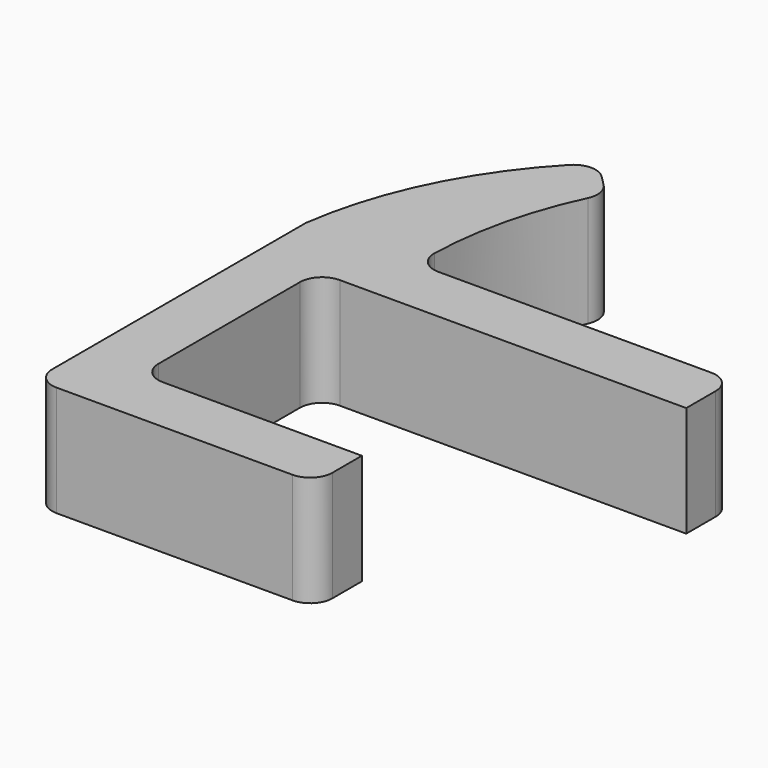
from build123d import *

# Parameters (mm, degrees)
F1_DEPTH = 15


with BuildPart() as f1:
    # F0 (on Top) → F1 (new body)
    with BuildSketch(Plane.XY):
        with BuildLine():
            ThreePointArc((0, 3), (0.87868, 0.87868), (3, 0))
            Line((3, 0), (35, 0))
            ThreePointArc((35, 0), (37.12132, 0.87868), (38, 3))
            Line((38, 3), (38, 8))
            Line((38, 8), (11, 8))
            ThreePointArc((11, 8), (8.87868, 8.87868), (8, 11))
            Line((8, 11), (8, 35))
            ThreePointArc((8, 35), (8.87868, 37.12132), (11, 38))
            Line((11, 38), (58, 38))
            Line((58, 38), (58, 43))
            ThreePointArc((58, 43), (57.12132, 45.12132), (55, 46))
            Line((55, 46), (17.991306, 46))
            ThreePointArc((17.991306, 46), (15.840344, 46.908742), (14.992494, 49.084426))
            ThreePointArc((14.992494, 49.084426), (16.344912, 59.351108), (19.765401, 69.12526))
            ThreePointArc((19.765401, 69.12526), (20.005693, 70.917938), (19.171778, 72.522937))
            Line((19.171778, 72.522937), (17.79718, 73.897535))
            ThreePointArc((17.79718, 73.897535), (15.64296, 74.776035), (13.508526, 73.850502))
            ThreePointArc((13.508526, 73.850502), (4.565133, 60.98706), (0, 46))
            Line((0, 46), (0, 3))
        make_face()
    extrude(amount=F1_DEPTH)


solid = f1.part
